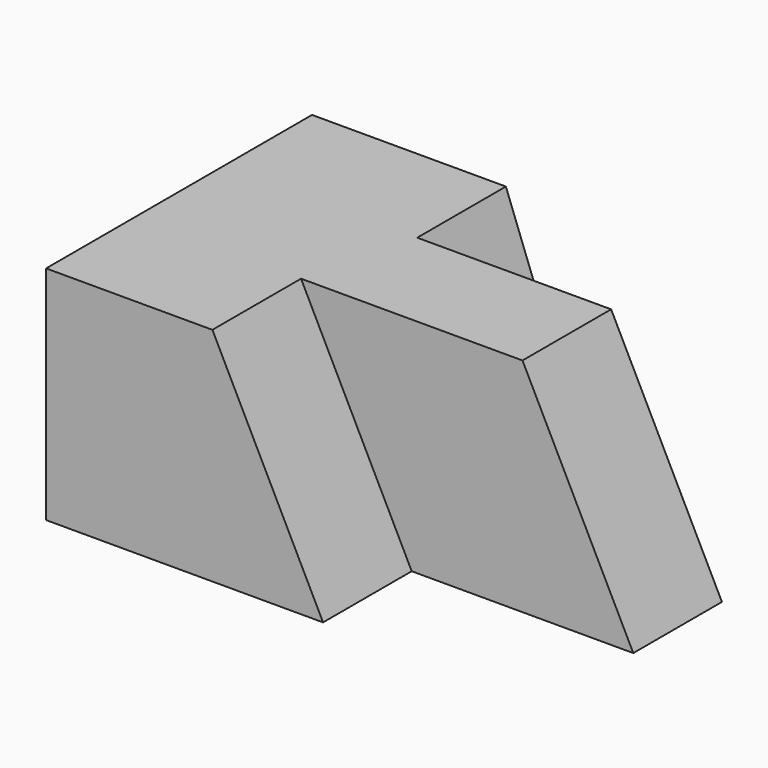
from build123d import *

# Parameters (mm, degrees)
F0_W     = 38.1
F0_H     = 25.4
F1_DEPTH = 57.15
F3_DEPTH = 38.101
F5_DEPTH = 12.7
F7_DEPTH = 12.7


with BuildPart() as f1:
    # F0 (on Right) → F1 (new body)
    with BuildSketch(Plane.YZ):
        with Locations((2.271346, 12.7)):
            Rectangle(F0_W, F0_H)
    extrude(amount=F1_DEPTH)

    # F2 (on face) → F3 (cut, through all)
    with BuildSketch(Plane.XZ.offset(16.778654)):
        Polygon((44.45, 25.4), (57.15, 0), (57.15, 25.4), align=None)
    extrude(amount=-F3_DEPTH, mode=Mode.SUBTRACT)

    # F4 (on face) → F5 (cut)
    with BuildSketch(Plane.XZ.offset(16.778654)):
        Polygon((44.45, 25.4), (19.065139, 25.4), (31.75, 0), (57.15, 0), align=None)
    extrude(amount=-F5_DEPTH, mode=Mode.SUBTRACT)

    # F6 (on face) → F7 (cut)
    with BuildSketch(Plane(origin=(0, 21.321346, 0), x_dir=(-1, 0, 0), z_dir=(0, 1, 0))):
        Polygon((-57.15, 0), (-31.75, 0), (-22.225, 25.4), (-44.45, 25.4), align=None)
    extrude(amount=-F7_DEPTH, mode=Mode.SUBTRACT)


solid = f1.part
